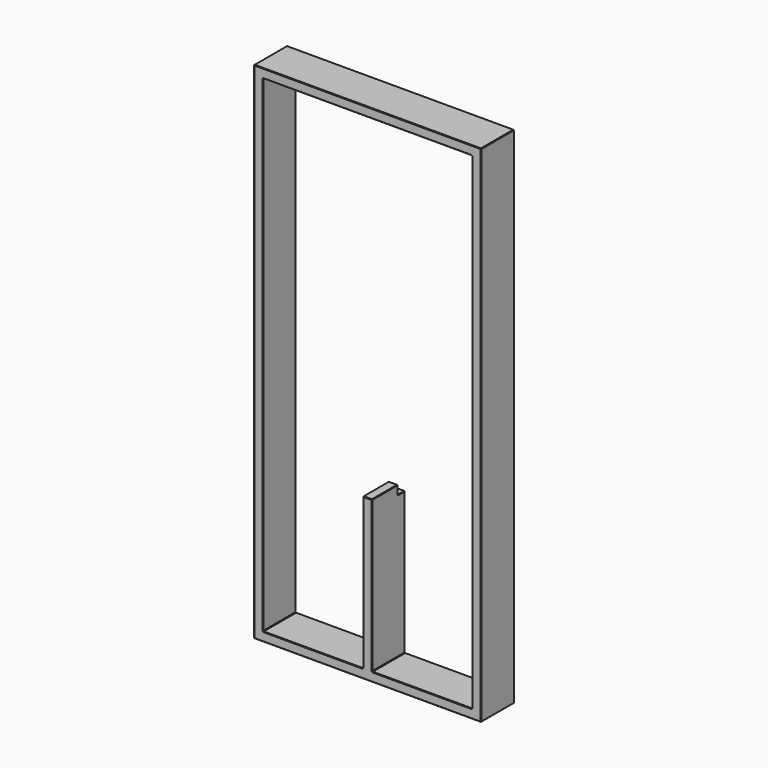
from build123d import *

# Parameters (mm, degrees)
F0_W     = 450
F0_H     = 1000
F1_DEPTH = 82
F2_W     = 18
F2_H     = 18
F3_DEPTH = 25
F4_SIZE  = 1


with BuildPart() as f1:
    # F0 (on Front) → F1 (new body)
    with BuildSketch(Plane.XZ):
        Rectangle(F0_W, F0_H)
        Polygon((-207, 482), (207, 482), (207, -482), (9, -482), (9, -182), (-9, -182), (-9, -482), (-207, -482), align=None, mode=Mode.SUBTRACT)
    extrude(amount=F1_DEPTH)

    # F2 (on face) → F3 (cut)
    with BuildSketch(Plane.YZ.offset(9)):
        with Locations((-9, -191)):
            Rectangle(F2_W, F2_H)
    extrude(amount=-F3_DEPTH, mode=Mode.SUBTRACT)

    # F4
    f4_edges = [f1.edges().sort_by_distance(p)[0] for p in [
        (0, -82, 500),
        (0, 0, -500),
        (-225, -41, 500),
        (225, -41, 500),
        (225, -41, -500),
        (9, -41, -482),
        (-207, -41, -482),
        (0, 0, 500),
        (9, -82, -332),
        (225, 0, 0),
        (-108, 0, -482),
        (225, -82, 0),
        (0, 0, 482),
        (108, 0, -482),
        (207, 0, 0),
        (9, -9, -200),
        (0, -82, -500),
        (-225, -41, -500),
        (207, -41, 482),
        (-207, -41, 482),
        (207, -41, -482),
        (-9, -41, -482),
        (0, 0, -200),
        (0, -18, -182),
        (-9, -82, -332),
        (0, -82, -182),
        (-225, 0, 0),
        (-225, -82, 0),
        (-108, -82, -482),
        (0, -18, -200),
        (0, -82, 482),
        (108, -82, -482),
        (207, -82, 0),
        (-207, 0, 0),
        (-207, -82, 0),
        (9, -18, -191),
        (-9, -9, -200),
        (-9, -18, -191),
        (-9, 0, -341),
        (9, 0, -341),
        (9, -50, -182),
        (-9, -50, -182),
    ]]
    chamfer(f4_edges, length=F4_SIZE)


solid = f1.part
